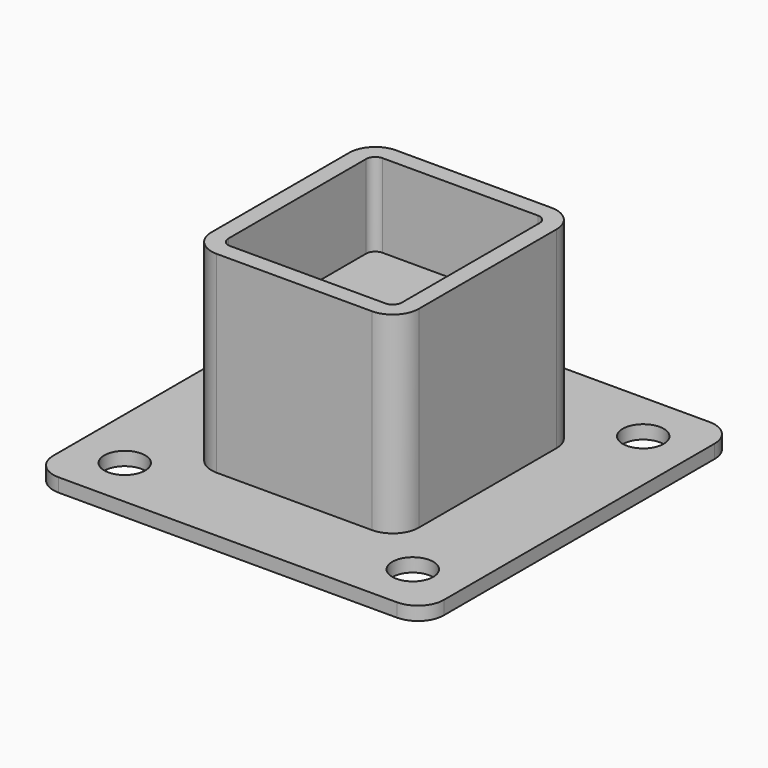
from build123d import *

# Parameters (mm, degrees)
F0_W     = 76.2
F0_H     = 76.2
F0_R     = 4
F1_DEPTH = 2.6416
F2_R     = 5.08
F3_W     = 40.450208
F3_H     = 43.757458
F4_DEPTH = 37.592
F5_R     = 5.08
F7_DEPTH = 16.256


with BuildPart() as f1:
    # F0 (on Top) → F1 (new body)
    with BuildSketch(Plane.XY):
        Rectangle(F0_W, F0_H)
        with Locations((-28.1, -28.1)):
            Circle(F0_R, mode=Mode.SUBTRACT)
        with Locations((28.1, -28.1)):
            Circle(F0_R, mode=Mode.SUBTRACT)
        with Locations((-28.1, 28.1)):
            Circle(F0_R, mode=Mode.SUBTRACT)
        with Locations((28.1, 28.1)):
            Circle(F0_R, mode=Mode.SUBTRACT)
    extrude(amount=F1_DEPTH)

    # F2
    f2_edges = [f1.edges().sort_by_distance(p)[0] for p in [
        (-38.1, -38.1, 1.3208),
        (38.1, -38.1, 1.3208),
        (38.1, 38.1, 1.3208),
        (-38.1, 38.1, 1.3208),
    ]]
    fillet(f2_edges, radius=F2_R)

    # F3 (on face) → F4 (join)
    with BuildSketch(Plane.XY.offset(2.6416)):
        Rectangle(F3_W, F3_H)
    extrude(amount=F4_DEPTH)

    # F5
    f5_edges = [f1.edges().sort_by_distance(p)[0] for p in [
        (-20.225104, -21.878729, 21.4376),
        (20.225104, -21.878729, 21.4376),
        (20.225104, 21.878729, 21.4376),
        (-20.225104, 21.878729, 21.4376),
    ]]
    fillet(f5_edges, radius=F5_R)

    # F6 (on face) → F7 (cut)
    with BuildSketch(Plane.XY.offset(40.2336)):
        with BuildLine():
            Line((-16.923103, 16.798729), (-16.923103, -16.798729))
            ThreePointArc((-16.923103, -16.798729), (-16.402339, -18.055964), (-15.145104, -18.576728))
            Line((-15.145104, -18.576728), (15.145104, -18.576728))
            ThreePointArc((15.145104, -18.576728), (16.402339, -18.055964), (16.923103, -16.798729))
            Line((16.923103, -16.798729), (16.923103, 16.798729))
            ThreePointArc((16.923103, 16.798729), (16.402339, 18.055964), (15.145104, 18.576728))
            Line((15.145104, 18.576728), (-15.145104, 18.576728))
            ThreePointArc((-15.145104, 18.576728), (-16.402339, 18.055964), (-16.923103, 16.798729))
        make_face()
    extrude(amount=-F7_DEPTH, mode=Mode.SUBTRACT)


solid = f1.part
